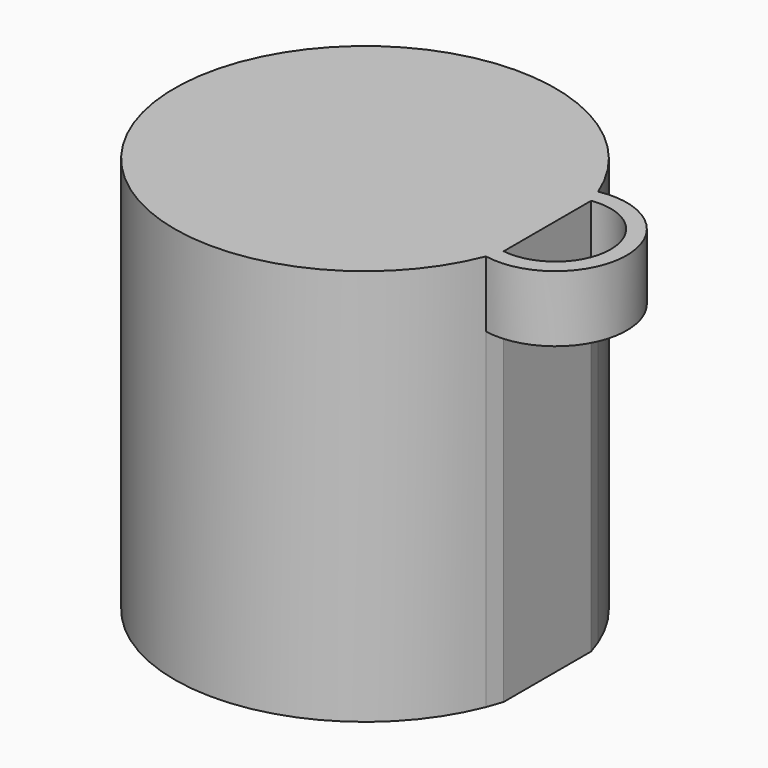
from build123d import *

# Parameters (mm, degrees)
F1_DEPTH = 38.1
F2_R     = 15.875
F3_DEPTH = 31.75
F5_DEPTH = 31.75


with BuildPart() as f1:
    # F0 (on Top) → F1 (new body)
    with BuildSketch(Plane.XY):
        with BuildLine():
            Line((17.5179102392, -5.2510727335), (17.5179102392, 5.2510727335))
            ThreePointArc((17.5179102392, 5.2510727335), (17.276294132, 5.9983835377), (17.0028141207, 6.7346310944))
            ThreePointArc((17.0028141207, 6.7346310944), (-18.288, 0), (17.0028141207, -6.7346310944))
            ThreePointArc((17.0028141207, -6.7346310944), (17.276294132, -5.9983835377), (17.5179102392, -5.2510727335))
        make_face()
        with BuildLine():
            ThreePointArc((17.0028141207, 6.7346310944), (17.276294132, 5.9983835377), (17.5179102392, 5.2510727335))
            ThreePointArc((17.5179102392, 5.2510727335), (23.5952406288, 0), (17.5179102392, -5.2510727335))
            ThreePointArc((17.5179102392, -5.2510727335), (17.276294132, -5.9983835377), (17.0028141207, -6.7346310944))
            ThreePointArc((17.0028141207, -6.7346310944), (25.1441620986, 0), (17.0028141207, 6.7346310944))
        make_face()
    extrude(amount=-F1_DEPTH)

    # F2 (on face) → F3 (cut)
    with BuildSketch(Plane(origin=(0, 0, -38.1), x_dir=(1, 0, 0), z_dir=(0, 0, -1))):
        Circle(F2_R)
    extrude(amount=-F3_DEPTH, mode=Mode.SUBTRACT)

    # F4 (on face) → F5 (cut)
    with BuildSketch(Plane(origin=(0, 0, -38.1), x_dir=(1, 0, 0), z_dir=(0, 0, -1))):
        with BuildLine():
            ThreePointArc((17.0028141207, -6.7346310944), (25.1441620986, 0), (17.0028141207, 6.7346310944))
            Line((17.0028141207, 6.7346310944), (17.5179102392, 5.2510727335))
            ThreePointArc((17.5179102392, 5.2510727335), (23.5952406288, 0), (17.5179102392, -5.2510727335))
            Line((17.5179102392, -5.2510727335), (17.0028141207, -6.7346310944))
        make_face()
    extrude(amount=-F5_DEPTH, mode=Mode.SUBTRACT)


solid = f1.part
